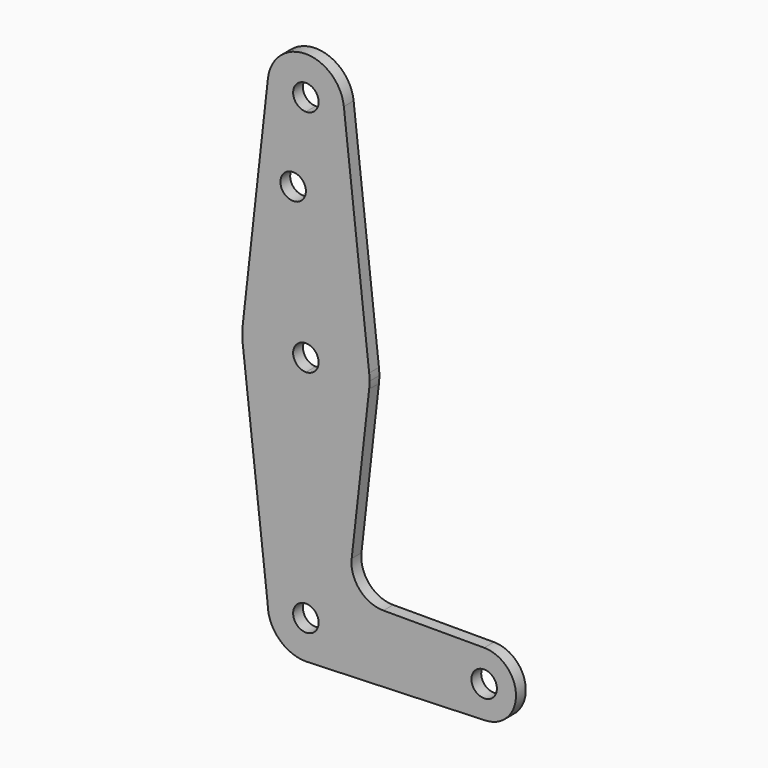
from build123d import *

# Parameters (mm, degrees)
F0_R     = 3.175
F1_DEPTH = 3.048


with BuildPart() as f1:
    # F0 (on Front) → F1 (new body)
    with BuildSketch(Plane.XZ):
        with BuildLine():
            ThreePointArc((3.175, 0), (-2.2450640303, -2.2450640303), (0, 3.175))
            Line((0, 3.175), (0, 9.525))
            ThreePointArc((0, 9.525), (-6.7351920908, 6.7351920908), (-9.525, 0))
            ThreePointArc((-9.525, 0), (-6.7351920908, -6.7351920908), (0, -9.525))
            Line((0, -9.525), (0.6773435479, -9.500885786))
            ThreePointArc((0.6773435479, -9.500885786), (6.9705567315, -6.4912990883), (9.525, 0))
            Line((9.525, 0), (3.175, 0))
        make_face()
        with BuildLine():
            ThreePointArc((-9.525, 0), (-6.7351920908, 6.7351920908), (0, 9.525))
            Line((0, 9.525), (0, 41.275))
            ThreePointArc((0, 41.275), (-10.5770706221, 45.3118750617), (-15.7748262685, 55.3694154892))
            Line((-15.7748262685, 55.3694154892), (-9.525, 0))
        make_face()
        with BuildLine():
            Line((0, 41.275), (0, 9.525))
            ThreePointArc((0, 9.525), (6.7351920908, 6.7351920908), (9.525, 0))
            Line((9.525, 0), (36.5125, 0))
            ThreePointArc((36.5125, 0), (38.8373399243, 5.6126600757), (44.45, 7.9375))
            Line((44.45, 7.9375), (19.319010717, 7.9375))
            ThreePointArc((19.319010717, 7.9375), (13.3904777479, 10.5907030324), (11.4189777218, 16.779416723))
            Line((11.4189777218, 16.779416723), (15.7748262685, 55.3694154892))
            ThreePointArc((15.7748262685, 55.3694154892), (10.5770706221, 45.3118750617), (0, 41.275))
        make_face()
        with BuildLine():
            Line((36.5125, 0), (9.525, 0))
            ThreePointArc((9.525, 0), (6.9705567315, -6.4912990883), (0.6773435479, -9.500885786))
            Line((0.6773435479, -9.500885786), (44.7324052746, -7.9324746146))
            ThreePointArc((44.7324052746, -7.9324746146), (38.9380895153, -5.7116327839), (36.5125, 0))
        make_face()
        with BuildLine():
            ThreePointArc((-15.7748262685, 55.3694154892), (-10.5770706221, 45.3118750617), (0, 41.275))
            Line((0, 41.275), (0, 53.975))
            ThreePointArc((0, 53.975), (-3.175, 57.15), (0, 60.325))
            Line((0, 60.325), (0, 73.025))
            ThreePointArc((0, 73.025), (-10.5833333333, 68.9825263809), (-15.7767018412, 58.9138888889))
            ThreePointArc((-15.7767018412, 58.9138888889), (-15.8749977775, 57.1415996791), (-15.7748262685, 55.3694154892))
        make_face()
        with BuildLine():
            Line((0, 53.975), (0, 41.275))
            ThreePointArc((0, 41.275), (10.5770706221, 45.3118750617), (15.7748262685, 55.3694154892))
            ThreePointArc((15.7748262685, 55.3694154892), (15.8499367824, 56.2582999416), (15.875, 57.15))
            ThreePointArc((15.875, 57.15), (15.8504064101, 58.033312875), (15.7767018412, 58.9138888889))
            ThreePointArc((15.7767018412, 58.9138888889), (10.5833333333, 68.9825263809), (0, 73.025))
            Line((0, 73.025), (0, 60.325))
            ThreePointArc((0, 60.325), (2.2450640303, 59.3950640303), (3.175, 57.15))
            ThreePointArc((3.175, 57.15), (2.2450640303, 54.9049359697), (0, 53.975))
        make_face()
        with BuildLine():
            ThreePointArc((44.45, 7.9375), (38.8373399243, 5.6126600757), (36.5125, 0))
            ThreePointArc((36.5125, 0), (38.9380895153, -5.7116327839), (44.7324052746, -7.9324746146))
            ThreePointArc((44.7324052746, -7.9324746146), (50.1616327839, -5.5119104847), (52.3875, 0))
            ThreePointArc((52.3875, 0), (50.0626600757, 5.6126600757), (44.45, 7.9375))
        make_face()
        with BuildLine():
            ThreePointArc((47.625, 0), (44.45, -3.175), (41.275, 0))
            ThreePointArc((41.275, 0), (44.45, 3.175), (47.625, 0))
        make_face(mode=Mode.SUBTRACT)
        with BuildLine():
            ThreePointArc((0, -9.525), (0.3388863295, -9.5189695375), (0.6773435479, -9.500885786))
            Line((0.6773435479, -9.500885786), (0, -9.525))
        make_face()
        with BuildLine():
            Line((-9.4660211047, 115.3583333333), (-15.7767018412, 58.9138888889))
            ThreePointArc((-15.7767018412, 58.9138888889), (-10.5833333333, 68.9825263809), (0, 73.025))
            Line((0, 73.025), (0, 93.6752))
            Line((0, 93.6752), (0, 104.775))
            ThreePointArc((0, 104.775), (-7.0995158286, 107.95), (-9.4660211047, 115.3583333333))
        make_face()
        with Locations((-3.175, 93.6752)):
            Circle(F0_R, mode=Mode.SUBTRACT)
        with BuildLine():
            Line((0, 93.6752), (0, 73.025))
            ThreePointArc((0, 73.025), (10.5833333333, 68.9825263809), (15.7767018412, 58.9138888889))
            Line((15.7767018412, 58.9138888889), (9.4660211047, 115.3583333333))
            ThreePointArc((9.4660211047, 115.3583333333), (9.5102438461, 114.829987725), (9.525, 114.3))
            ThreePointArc((9.525, 114.3), (6.7351920908, 107.5648079092), (0, 104.775))
            Line((0, 104.775), (0, 93.6752))
        make_face()
        with BuildLine():
            ThreePointArc((9.4660211047, 115.3583333333), (0, 123.825), (-9.4660211047, 115.3583333333))
            ThreePointArc((-9.4660211047, 115.3583333333), (-7.0995158286, 107.95), (0, 104.775))
            ThreePointArc((0, 104.775), (6.7351920908, 107.5648079092), (9.525, 114.3))
            ThreePointArc((9.525, 114.3), (9.5102438461, 114.829987725), (9.4660211047, 115.3583333333))
        make_face()
        with BuildLine():
            ThreePointArc((3.175, 114.3), (2.2450640303, 112.0549359697), (0, 111.125))
            ThreePointArc((0, 111.125), (-2.2450640303, 116.5450640303), (3.175, 114.3))
        make_face(mode=Mode.SUBTRACT)
        with BuildLine():
            Line((0, 9.525), (0, 3.175))
            ThreePointArc((0, 3.175), (2.2450640303, 2.2450640303), (3.175, 0))
            Line((3.175, 0), (9.525, 0))
            ThreePointArc((9.525, 0), (6.7351920908, 6.7351920908), (0, 9.525))
        make_face()
    extrude(amount=F1_DEPTH)


solid = f1.part
